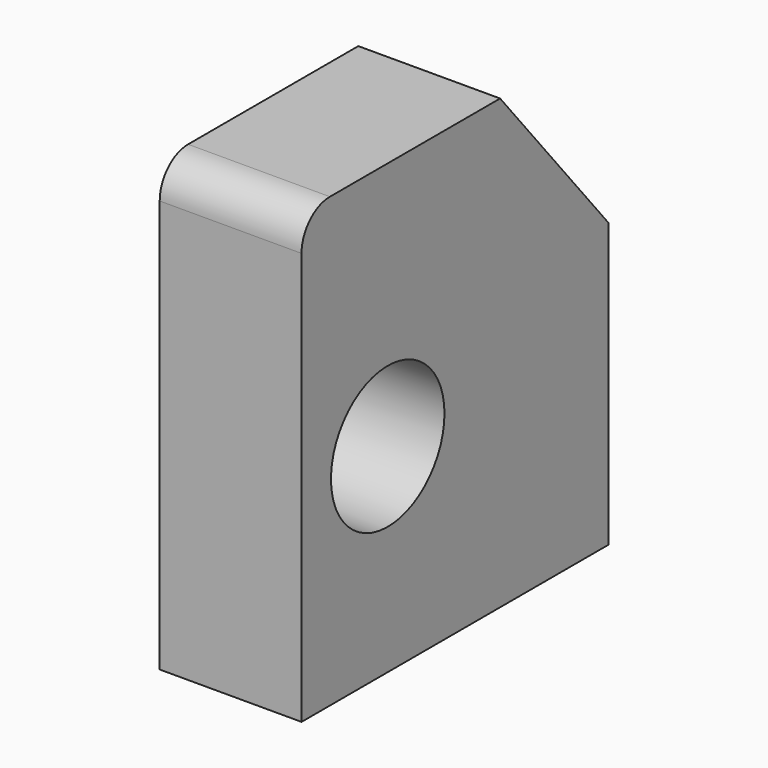
from build123d import *

# Parameters (mm, degrees)
F0_R     = 12.7
F1_DEPTH = 25.4


with BuildPart() as f1:
    # F0 (on Right) → F1 (new body)
    with BuildSketch(Plane.YZ):
        with BuildLine():
            Line((-8.451596, 44.603311), (-46.551596, 44.603311))
            ThreePointArc((-46.551596, 44.603311), (-51.041724, 42.743439), (-52.901596, 38.253311))
            Line((-52.901596, 38.253311), (-52.901596, -35.611195))
            Line((-52.901596, -35.611195), (15.764037, -35.611195))
            Line((15.764037, -35.611195), (15.764037, 15.188805))
            Line((15.764037, 15.188805), (-8.451596, 44.603311))
        make_face()
        with Locations((-33.608079, 0)):
            Circle(F0_R, mode=Mode.SUBTRACT)
    extrude(amount=F1_DEPTH)


solid = f1.part
